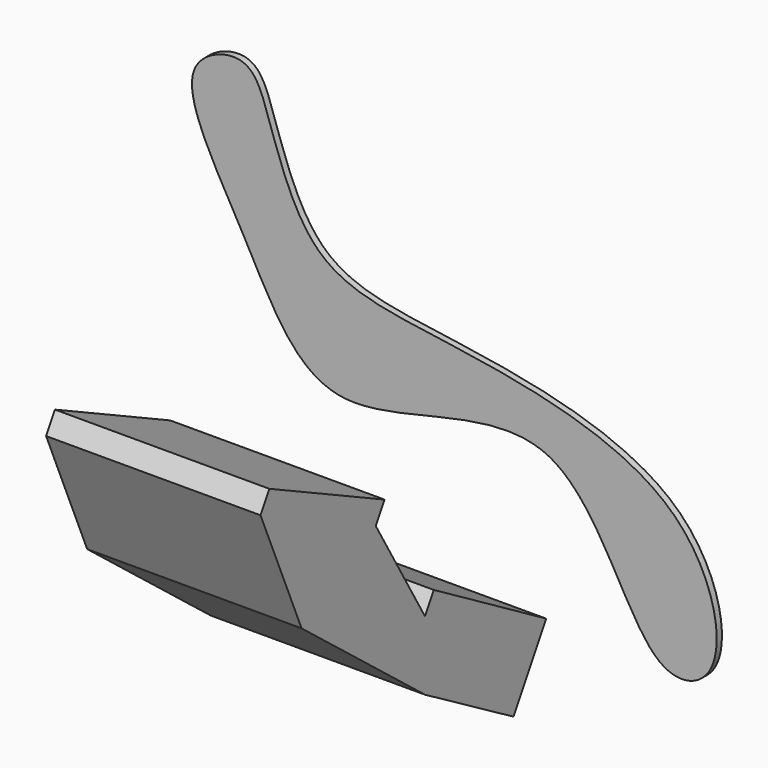
from build123d import *

# Parameters (mm, degrees)
F1_DEPTH = 1.3
F3_DEPTH = 42.3
F4_DEPTH = 4.3


with BuildPart() as f1:
    # F0 (on Front) → F1 (new body)
    with BuildSketch(Plane.XZ):
        with BuildLine():
            add(Edge.make_bspline(
                [(-55.3550831974, 66.3061439991), (-57.7181877277, 60.645851022), (-44.3167609552, 40.1086084958), (-30.632707997, 8.5081690284), (19.7690082361, 36.9208956037), (32.0411444878, -11.4608490822), (50.9665767831, -6.8844197465), (43.8273851032, 27.8401342789), (-7.1273178942, 35.328646318), (-33.0540337461, 38.7220276868), (-40.3793410453, 61.7575980452), (-44.423269854, 73.3187189068), (-53.9168080512, 69.7512132307), (-55.3550831974, 66.3061439991)],
                knots=[0, 0, 0, 0, 0.0965765412, 0.1958090058, 0.3130954333, 0.4245413682, 0.4826432037, 0.5756474252, 0.7050640919, 0.7969935249, 0.8828208535, 0.94121985, 1, 1, 1, 1], degree=3))
        make_face()
    extrude(amount=-F1_DEPTH)


with BuildPart() as f3:
    # F2 (on Right) → F3 (new body)
    with BuildSketch(Plane.YZ):
        Polygon((-24.4775749743, 14.8942228407), (-52.9205910861, 28.3364672214), (-42.7778847516, 4.5646955259), (-12.3416287825, -19.3338748068), (9.4713311858, -32.0133127617), (15.3598692268, -21.9713300467), (-12.3416287825, -5.7273940183), align=None)
    extrude(amount=-F3_DEPTH)

    # F4 (add): faces of the model
    f4_faces = [f3.faces().sort_by_distance(p)[0] for p in [
        (-21.15, 1.5091202222, -13.8493620325),
        (-21.15, -38.6990830302, 21.615345031),
    ]]
    extrude(f4_faces, amount=F4_DEPTH, dir=(0, 0.5058383147, 0.862628309))


solid = Compound([f1.part, f3.part])
